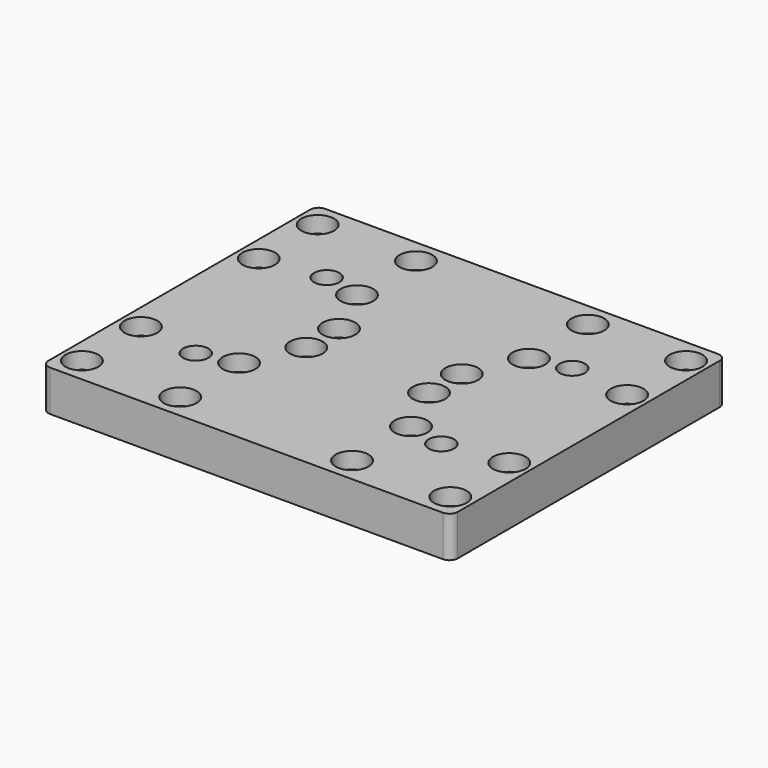
from build123d import *

# Parameters (mm, degrees)
SKETCH_W        = 100
SKETCH_H        = 84
PAD_DEPTH       = 10
SKETCH001_R     = 2.1
POCKET_DEPTH    = 10
SKETCH002_R     = 2.1
POCKET001_DEPTH = 10
SKETCH003_R     = 4
POCKET002_DEPTH = 4
SKETCH004_R     = 4
POCKET003_DEPTH = 4
SKETCH005_R     = 3.1
POCKET004_DEPTH = 10
SKETCH006_R     = 4.8
POCKET005_DEPTH = 5.2
FILLET_R        = 2


with BuildPart() as part:
    # Sketch → Pad (new body)
    with BuildSketch(Plane.XY):
        with Locations((50, 42)):
            Rectangle(SKETCH_W, SKETCH_H)
    extrude(amount=PAD_DEPTH)

    # Sketch001 (on Face6 of Pad) → Pocket (cut)
    with BuildSketch(Plane.XY.offset(10)):
        with Locations((5, 6)):
            Circle(SKETCH001_R)
        with Locations((29, 6)):
            Circle(SKETCH001_R)
        with Locations((71, 6)):
            Circle(SKETCH001_R)
        with Locations((95, 6)):
            Circle(SKETCH001_R)
        with Locations((5, 24)):
            Circle(SKETCH001_R)
        with Locations((29, 24)):
            Circle(SKETCH001_R)
        with Locations((71, 24)):
            Circle(SKETCH001_R)
        with Locations((95, 24)):
            Circle(SKETCH001_R)
        with Locations((5, 78)):
            Circle(SKETCH001_R)
        with Locations((29, 78)):
            Circle(SKETCH001_R)
        with Locations((5, 60)):
            Circle(SKETCH001_R)
        with Locations((29, 60)):
            Circle(SKETCH001_R)
        with Locations((71, 78)):
            Circle(SKETCH001_R)
        with Locations((95, 78)):
            Circle(SKETCH001_R)
        with Locations((71, 60)):
            Circle(SKETCH001_R)
        with Locations((95, 60)):
            Circle(SKETCH001_R)
    extrude(amount=-POCKET_DEPTH, mode=Mode.SUBTRACT)

    # Sketch002 (on Face5 of Pocket) → Pocket001 (cut)
    with BuildSketch(Plane.XY.offset(10)):
        with Locations((35, 47)):
            Circle(SKETCH002_R)
        with Locations((65, 47)):
            Circle(SKETCH002_R)
        with Locations((35, 37)):
            Circle(SKETCH002_R)
        with Locations((65, 37)):
            Circle(SKETCH002_R)
    extrude(amount=-POCKET001_DEPTH, mode=Mode.SUBTRACT)

    # Sketch003 (on Face5 of Pocket001) → Pocket002 (cut)
    with BuildSketch(Plane.XY.offset(10)):
        with Locations((35, 47)):
            Circle(SKETCH003_R)
        with Locations((65, 47)):
            Circle(SKETCH003_R)
        with Locations((35, 37)):
            Circle(SKETCH003_R)
        with Locations((65, 37)):
            Circle(SKETCH003_R)
    extrude(amount=-POCKET002_DEPTH, mode=Mode.SUBTRACT)

    # Sketch004 (on Face5 of Pocket002) → Pocket003 (cut)
    with BuildSketch(Plane.XY.offset(10)):
        with Locations((5, 78)):
            Circle(SKETCH004_R)
        with Locations((29, 78)):
            Circle(SKETCH004_R)
        with Locations((5, 60)):
            Circle(SKETCH004_R)
        with Locations((29, 60)):
            Circle(SKETCH004_R)
        with Locations((5, 24)):
            Circle(SKETCH004_R)
        with Locations((29, 24)):
            Circle(SKETCH004_R)
        with Locations((5, 6)):
            Circle(SKETCH004_R)
        with Locations((29, 6)):
            Circle(SKETCH004_R)
        with Locations((71, 78)):
            Circle(SKETCH004_R)
        with Locations((71, 60)):
            Circle(SKETCH004_R)
        with Locations((95, 78)):
            Circle(SKETCH004_R)
        with Locations((95, 60)):
            Circle(SKETCH004_R)
        with Locations((71, 24)):
            Circle(SKETCH004_R)
        with Locations((95, 24)):
            Circle(SKETCH004_R)
        with Locations((71, 6)):
            Circle(SKETCH004_R)
        with Locations((95, 6)):
            Circle(SKETCH004_R)
    extrude(amount=-POCKET003_DEPTH, mode=Mode.SUBTRACT)

    # Sketch005 (on Face5 of Pocket003) → Pocket004 (cut)
    with BuildSketch(Plane.XY.offset(10)):
        with Locations((20, 62)):
            Circle(SKETCH005_R)
        with Locations((80, 62)):
            Circle(SKETCH005_R)
        with Locations((20, 22)):
            Circle(SKETCH005_R)
        with Locations((80, 22)):
            Circle(SKETCH005_R)
    extrude(amount=-POCKET004_DEPTH, mode=Mode.SUBTRACT)

    # Sketch006 (on Face4 of Pocket004) → Pocket005 (cut)
    with BuildSketch(Plane(origin=(0, 0, 0), x_dir=(1, 0, 0), z_dir=(0, 0, -1))):
        with Locations((20, -22)):
            Circle(SKETCH006_R)
        with Locations((20, -62)):
            Circle(SKETCH006_R)
        with Locations((80, -62)):
            Circle(SKETCH006_R)
        with Locations((80, -22)):
            Circle(SKETCH006_R)
    extrude(amount=-POCKET005_DEPTH, mode=Mode.SUBTRACT)

    # Fillet
    fillet_edges = [part.edges().sort_by_distance(p)[0] for p in [
        (0, 84, 5),
        (100, 84, 5),
        (0, 0, 5),
        (100, 0, 5),
    ]]
    fillet(fillet_edges, radius=FILLET_R)


solid = part.part
